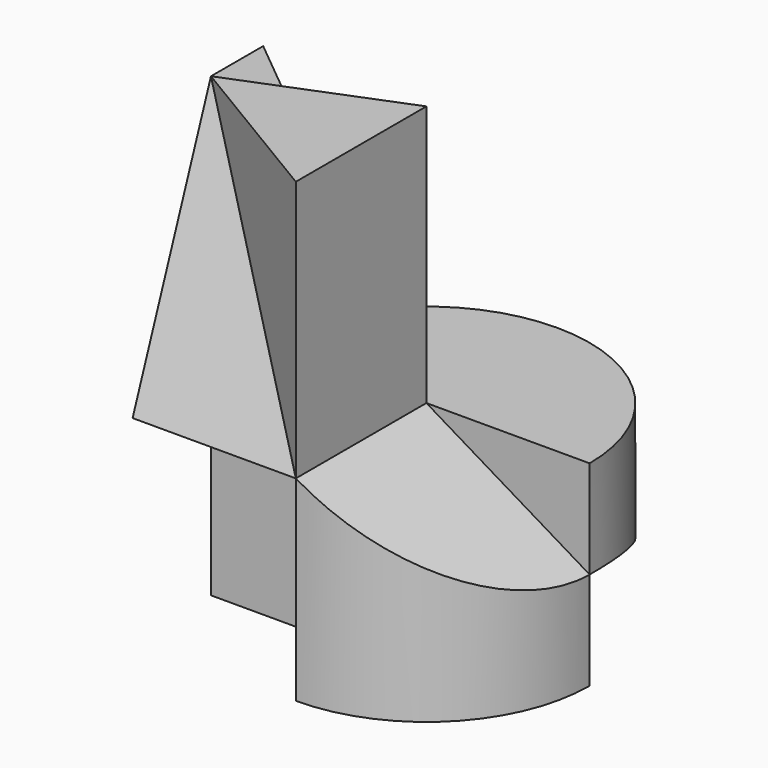
from build123d import *

# Parameters (mm, degrees)
F0_W      = 100
F0_H      = 100
F1_DEPTH  = 140
F3_DEPTH  = 140.001
F5_DEPTH  = 80
F7_W      = 50
F7_H      = 80
F13_DEPTH = 50.00099999
F15_DEPTH = 50.00099999
F16_W     = 30
F16_H     = 59.999
F17_DEPTH = 50


with BuildPart() as f1:
    # F0 (on Top) → F1 (new body)
    with BuildSketch(Plane.XY):
        with Locations((50, 50)):
            Rectangle(F0_W, F0_H)
    extrude(amount=F1_DEPTH)

    # F2 (on face) → F3 (cut, through all)
    with BuildSketch(Plane.XY.offset(140)):
        with BuildLine():
            ThreePointArc((0, 50), (14.6446609407, 85.3553390593), (50, 100))
            Line((50, 100), (0, 100))
            Line((0, 100), (0, 50))
        make_face()
        with BuildLine():
            ThreePointArc((50, 100), (85.3553390593, 85.3553390593), (100, 50))
            Line((100, 50), (100, 100))
            Line((100, 100), (50, 100))
        make_face()
        with BuildLine():
            Line((100, 0), (100, 50))
            ThreePointArc((100, 50), (85.3553390593, 14.6446609407), (50, 0))
            Line((50, 0), (100, 0))
        make_face()
    extrude(amount=-F3_DEPTH, mode=Mode.SUBTRACT)

    # F4 (on face) → F5 (cut)
    with BuildSketch(Plane.XY.offset(140)):
        with BuildLine():
            Line((50, 50), (50, 0))
            ThreePointArc((50, 0), (85.3553390593, 14.6446609407), (100, 50))
            ThreePointArc((100, 50), (50, 100), (0, 50))
            Line((0, 50), (50, 50))
        make_face()
    extrude(amount=-F5_DEPTH, mode=Mode.SUBTRACT)

    # F7 (on face) → F9 section 0
    with BuildSketch(Plane.XZ, mode=Mode.PRIVATE) as f9_s0:
        with Locations((25, 100)):
            Rectangle(F7_W, F7_H)
    loft([f9_s0.sketch, Vertex(0, 30, 140)], mode=Mode.SUBTRACT)

    # F6 (on face) → F10 section 0
    with BuildSketch(Plane.XY.offset(140), mode=Mode.PRIVATE) as f10_s0:
        Polygon((0, 30), (50, 50), (0, 50), align=None)
    loft([f10_s0.sketch, Vertex(50, 50, 60)], mode=Mode.SUBTRACT)

    # F12 (on 3pt) → F13 (cut, through all)
    with BuildSketch(Plane.XZ.offset(-50)):
        Polygon((100, 60), (50.001, 60), (100, 30), align=None)
    extrude(amount=F13_DEPTH, mode=Mode.SUBTRACT)

    # F14 (on 3pt) → F15 (cut, through all)
    with BuildSketch(Plane.XZ.offset(-50)):
        Polygon((100, 0), (100, 29.99), (50.001, 0), align=None)
    extrude(amount=-F15_DEPTH, mode=Mode.SUBTRACT)

    # F16 (on face) → F17 (cut)
    with BuildSketch(Plane(origin=(0, 0, 0), x_dir=(0, -1, 0), z_dir=(-1, 0, 0))):
        with Locations((-15, 29.9995)):
            Rectangle(F16_W, F16_H)
    extrude(amount=-F17_DEPTH, mode=Mode.SUBTRACT)


solid = f1.part
